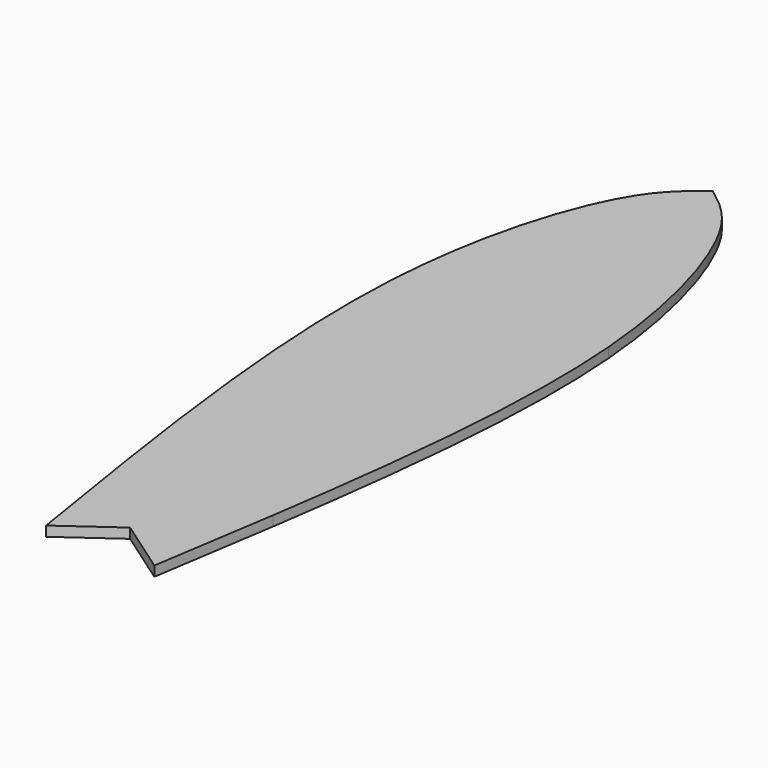
from build123d import *

# Parameters (mm, degrees)
F1_DEPTH = 12


with BuildPart() as f1:
    # F0 (on Top) → F1 (new body)
    with BuildSketch(Plane.XY):
        with BuildLine():
            Line((262.4141693115, -50), (262.4141693115, 0))
            add(Edge.make_bspline(
                [(262.4141693115, 0), (245.6259699222, -12.5464715734), (228.837770533, -25.0929431469), (212.4141693115, -50)],
                knots=[0, 0, 0, 0, 0.1692413583, 0.1692413583, 0.1692413583, 0.1692413583], degree=3))
            Line((212.4141693115, -50), (262.4141693115, -50))
        make_face()
        with BuildLine():
            add(Edge.make_bspline(
                [(262.4141693115, 0), (279.2096785503, -12.546858298), (296.005187789, -25.093716596), (312.4141693115, -50)],
                knots=[0, 0, 0, 0, 0.169252769, 0.169252769, 0.169252769, 0.169252769], degree=3))
            Line((262.4141693115, 0), (262.4141693115, -50))
            Line((262.4141693115, -50), (312.4141693115, -50))
        make_face()
        with BuildLine():
            Line((262.4141693115, -150), (262.4141693115, -50))
            Line((262.4141693115, -50), (212.4141693115, -50))
            add(Edge.make_bspline(
                [(212.4141693115, -50), (196.9697002814, -73.4221632036), (181.8476525057, -107.7750324908), (169.3009969615, -150)],
                knots=[0.1692413583, 0.1692413583, 0.1692413583, 0.1692413583, 0.328392989, 0.328392989, 0.328392989, 0.328392989], degree=3))
            Line((169.3009969615, -150), (262.4141693115, -150))
        make_face()
        with BuildLine():
            Line((312.4141693115, -50), (262.4141693115, -50))
            Line((262.4141693115, -50), (262.4141693115, -150))
            Line((262.4141693115, -150), (355.4664618645, -150))
            add(Edge.make_bspline(
                [(312.4141693115, -50), (327.8452888347, -73.422040884), (342.9345767174, -107.7743265618), (355.4664618645, -150)],
                knots=[0.169252769, 0.169252769, 0.169252769, 0.169252769, 0.3284192416, 0.3284192416, 0.3284192416, 0.3284192416], degree=3))
        make_face()
        with BuildLine():
            Line((262.4141693115, -775), (262.4141693115, -310))
            Line((262.4141693115, -310), (140.5391693115, -310))
            add(Edge.make_bspline(
                [(140.5391693115, -310), (129.8972583238, -444.9845817446), (148.7010593064, -606.9198043189), (174.218730631, -775)],
                knots=[0.4997981996, 0.4997981996, 0.4997981996, 0.4997981996, 0.8859497764, 0.8859497764, 0.8859497764, 0.8859497764], degree=3))
            Line((174.218730631, -775), (262.4141693115, -775))
        make_face()
        with BuildLine():
            Line((384.2891693115, -310), (262.4141693115, -310))
            Line((262.4141693115, -310), (262.4141693115, -775))
            Line((262.4141693115, -775), (351.8846313691, -775))
            add(Edge.make_bspline(
                [(384.2891693115, -310), (395.0941520358, -444.9761542679), (376.8060383996, -606.9143707938), (351.8846313691, -775)],
                knots=[0.4998318974, 0.4998318974, 0.4998318974, 0.4998318974, 0.8859605134, 0.8859605134, 0.8859605134, 0.8859605134], degree=3))
        make_face()
        with BuildLine():
            Line((262.4141693115, -878.8259045601), (262.4141693115, -775))
            Line((262.4141693115, -775), (174.218730631, -775))
            add(Edge.make_bspline(
                [(174.218730631, -775), (181.7553983373, -824.6426404571), (189.8777314962, -874.8213202285), (198.000064655, -925)],
                knots=[0.8859497764, 0.8859497764, 0.8859497764, 0.8859497764, 1, 1, 1, 1], degree=3))
            Line((198.000064655, -925), (262.4141693115, -878.8259045601))
        make_face()
        with BuildLine():
            Line((351.8846313691, -775), (262.4141693115, -775))
            Line((262.4141693115, -775), (262.4141693115, -878.8259045601))
            Line((262.4141693115, -878.8259045601), (328.6465229342, -925))
            add(Edge.make_bspline(
                [(351.8846313691, -775), (344.5243261657, -824.6425233831), (336.5854245499, -874.8212616915), (328.6465229342, -925)],
                knots=[0.8859605134, 0.8859605134, 0.8859605134, 0.8859605134, 1, 1, 1, 1], degree=3))
        make_face()
        with BuildLine():
            Line((262.4141693115, -310), (262.4141693115, -150))
            Line((262.4141693115, -150), (169.3009969615, -150))
            add(Edge.make_bspline(
                [(169.3009969615, -150), (155.7883353146, -195.4759993204), (145.262907614, -250.0829569271), (140.5391693115, -310)],
                knots=[0.328392989, 0.328392989, 0.328392989, 0.328392989, 0.4997981996, 0.4997981996, 0.4997981996, 0.4997981996], degree=3))
            Line((140.5391693115, -310), (262.4141693115, -310))
        make_face()
        with BuildLine():
            Line((355.4664618645, -150), (262.4141693115, -150))
            Line((262.4141693115, -150), (262.4141693115, -310))
            Line((262.4141693115, -310), (384.2891693115, -310))
            add(Edge.make_bspline(
                [(355.4664618645, -150), (368.9625435455, -195.4744941456), (379.4925530873, -250.0805324753), (384.2891693115, -310)],
                knots=[0.3284192416, 0.3284192416, 0.3284192416, 0.3284192416, 0.4998318974, 0.4998318974, 0.4998318974, 0.4998318974], degree=3))
        make_face()
    extrude(amount=F1_DEPTH)


solid = f1.part
